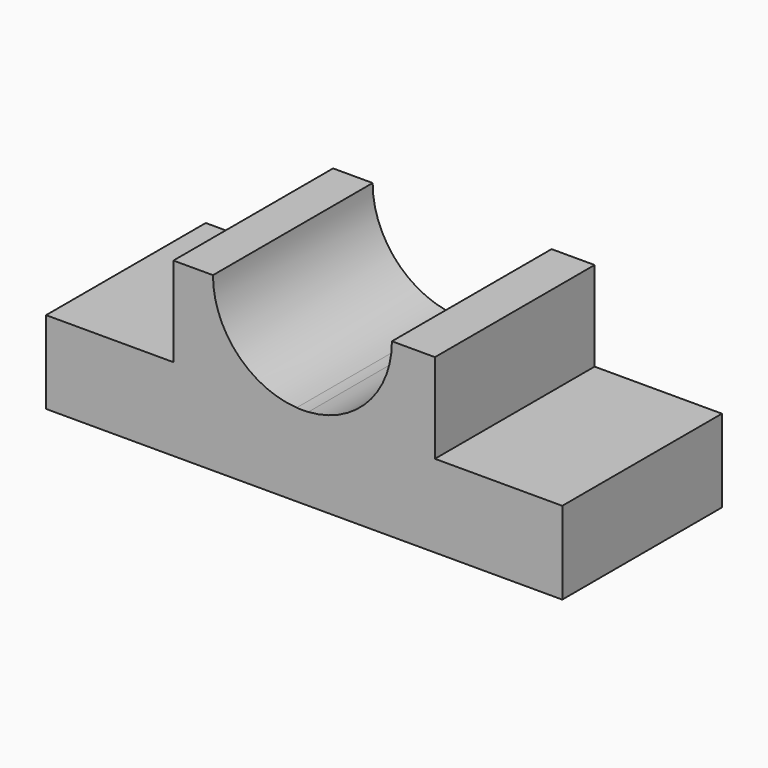
from build123d import *

# Parameters (mm, degrees)
F1_DEPTH = 147.32


with BuildPart() as f1:
    # F0 (on Front) → F1 (new body)
    with BuildSketch(Plane.XZ):
        with BuildLine():
            Line((0, 30.142193), (-93.98, 30.142193))
            Line((-93.98, 30.142193), (-93.98, -30.817807))
            Line((-93.98, -30.817807), (287.02, -30.817807))
            Line((287.02, -30.817807), (287.02, 30.142193))
            Line((287.02, 30.142193), (193.04, 30.142193))
            Line((193.04, 30.142193), (99.556141, 30.142193))
            ThreePointArc((99.556141, 30.142193), (95.25015, 30.001662), (90.944158, 30.142193))
            Line((90.944158, 30.142193), (0, 30.142193))
        make_face()
        with BuildLine():
            Line((0, 96.182193), (0, 30.142193))
            Line((0, 30.142193), (90.944158, 30.142193))
            ThreePointArc((90.944158, 30.142193), (47.006448, 50.943693), (29.210299, 96.182193))
            Line((29.210299, 96.182193), (0, 96.182193))
        make_face()
        with BuildLine():
            ThreePointArc((161.29, 96.182193), (143.493851, 50.943693), (99.556141, 30.142193))
            Line((99.556141, 30.142193), (193.04, 30.142193))
            Line((193.04, 30.142193), (193.04, 96.182193))
            Line((193.04, 96.182193), (161.29, 96.182193))
        make_face()
    extrude(amount=F1_DEPTH)


solid = f1.part
